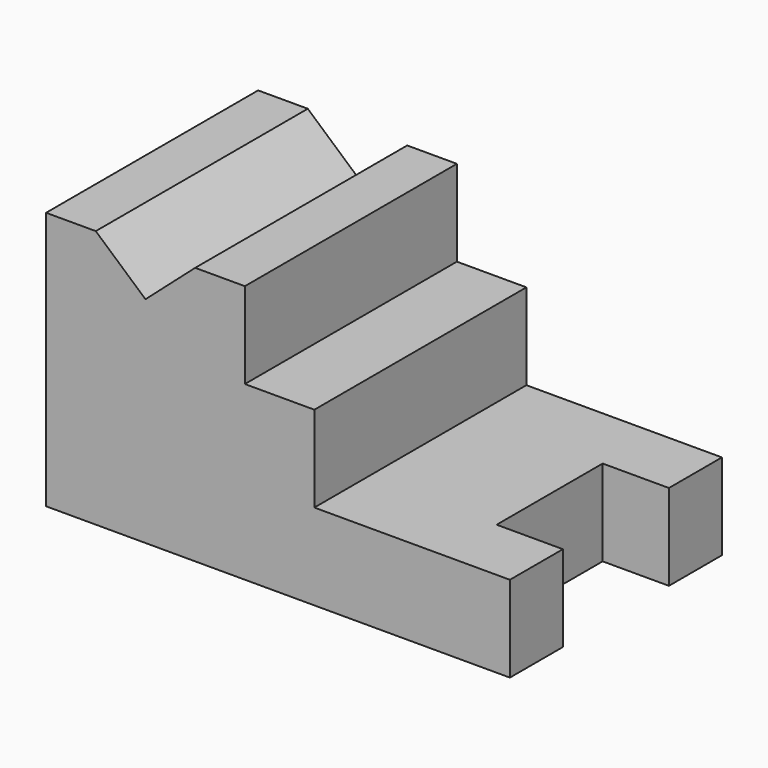
from build123d import *

# Parameters (mm, degrees)
F1_DEPTH = 80
F2_W     = 40
F2_H     = 26
F3_DEPTH = 20


with BuildPart() as f1:
    # F0 (on Front) → F1 (new body)
    with BuildSketch(Plane.XZ):
        Polygon((-82.429772, -14.864372), (57.570228, -14.864372), (57.570228, 11.135628), (-1.449937, 11.135628), (-1.449937, 37.135628), (-22.429772, 37.135628), (-22.429772, 63.135628), (-37.429772, 63.135628), (-52.429772, 49.906872), (-67.429772, 63.135628), (-82.429772, 63.135628), align=None)
    extrude(amount=F1_DEPTH)

    # F2 (on face) → F3 (cut)
    with BuildSketch(Plane.YZ.offset(57.570228)):
        with Locations((-40, -1.864372)):
            Rectangle(F2_W, F2_H)
    extrude(amount=-F3_DEPTH, mode=Mode.SUBTRACT)


solid = f1.part
